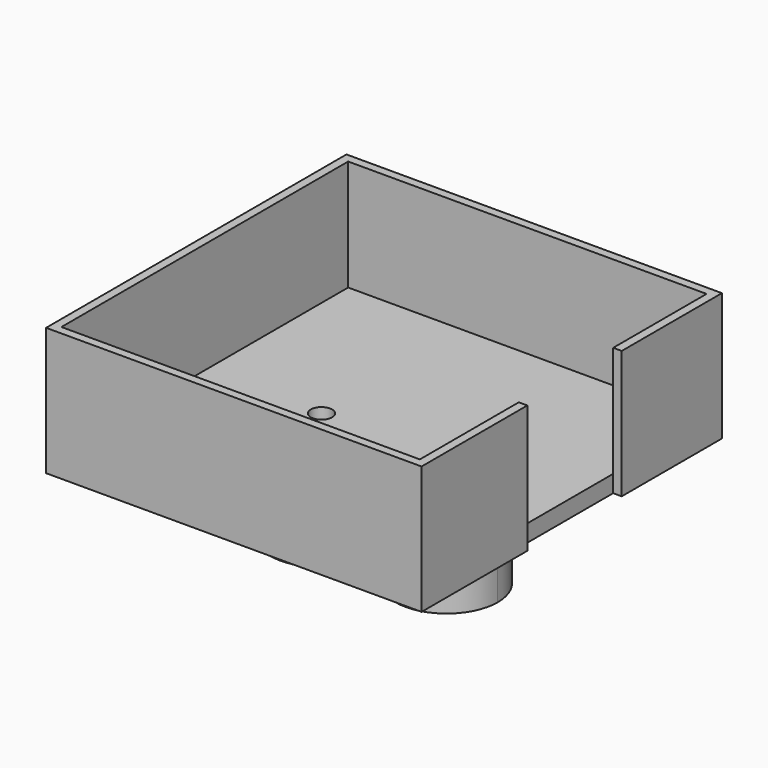
from build123d import *

# Parameters (mm, degrees)
F1_DEPTH = 16.65056
F2_W     = 42
F2_H     = 42
F3_DEPTH = 2
F2_W_2   = 44
F2_H_2   = 44
F4_DEPTH = 15
F6_D     = 2.5
F7_DEPTH = 5.88
F8_W     = 1
F8_H     = 13.8298794627
F9_DEPTH = 25


with BuildPart() as f1:
    # F0 (on Top) → F1 (new body)
    with BuildSketch(Plane.XY):
        with BuildLine():
            Line((0.0728459244, 3.5), (4.8733971724, 3.5))
            ThreePointArc((4.8733971724, 3.5), (-6, 0), (4.8733971724, -3.5))
            Line((4.8733971724, -3.5), (0.0728459244, -3.5))
            Line((0.0728459244, -3.5), (0.0728459244, 3.5))
        make_face()
        with BuildLine():
            ThreePointArc((4.8733971724, 3.5), (5.7114088907, 1.8384255445), (6, 0))
            ThreePointArc((6, 0), (5.7114088907, -1.8384255445), (4.8733971724, -3.5))
            Line((4.8733971724, -3.5), (9.7837838487, -3.5))
            ThreePointArc((9.7837838487, -3.5), (8.6571810211, 0), (9.7837838487, 3.5))
            Line((9.7837838487, 3.5), (4.8733971724, 3.5))
        make_face()
        with BuildLine():
            ThreePointArc((4.8733971724, -3.5), (5.7114088907, -1.8384255445), (6, 0))
            ThreePointArc((6, 0), (5.7114088907, 1.8384255445), (4.8733971724, 3.5))
            Line((4.8733971724, 3.5), (0.0728459244, 3.5))
            Line((0.0728459244, 3.5), (0.0728459244, -3.5))
            Line((0.0728459244, -3.5), (4.8733971724, -3.5))
        make_face()
        with BuildLine():
            Line((14.6571810211, 3.5), (9.7837838487, 3.5))
            ThreePointArc((9.7837838487, 3.5), (8.6571810211, 0), (9.7837838487, -3.5))
            Line((9.7837838487, -3.5), (14.6571810211, -3.5))
            Line((14.6571810211, -3.5), (14.6571810211, 3.5))
        make_face()
        with BuildLine():
            ThreePointArc((20.6571810211, 0), (16.4956065656, 5.7114088907), (9.7837838487, 3.5))
            Line((9.7837838487, 3.5), (14.6571810211, 3.5))
            Line((14.6571810211, 3.5), (14.6571810211, -3.5))
            Line((14.6571810211, -3.5), (9.7837838487, -3.5))
            ThreePointArc((9.7837838487, -3.5), (16.4956065656, -5.7114088907), (20.6571810211, 0))
        make_face()
    extrude(amount=F1_DEPTH)

    # F2 (on face) → F3 (join)
    with BuildSketch(Plane.XY.offset(16.65056)):
        with Locations((7.3285905105, 0)):
            Rectangle(F2_W, F2_H)
        with BuildLine():
            ThreePointArc((4.8733971724, -3.5), (-6, 0), (4.8733971724, 3.5))
            Line((4.8733971724, 3.5), (9.7837838487, 3.5))
            ThreePointArc((9.7837838487, 3.5), (20.6571810211, 0), (9.7837838487, -3.5))
            Line((9.7837838487, -3.5), (4.8733971724, -3.5))
        make_face(mode=Mode.SUBTRACT)
        with BuildLine():
            Line((9.7837838487, 3.5), (4.8733971724, 3.5))
            ThreePointArc((4.8733971724, 3.5), (-6, 0), (4.8733971724, -3.5))
            Line((4.8733971724, -3.5), (9.7837838487, -3.5))
            ThreePointArc((9.7837838487, -3.5), (20.6571810211, 0), (9.7837838487, 3.5))
        make_face()
    extrude(amount=F3_DEPTH)

    # F2 (on face) → F4 (join)
    with BuildSketch(Plane.XY.offset(16.65056)):
        with Locations((7.3285905105, 0)):
            Rectangle(F2_W_2, F2_H_2)
        with Locations((7.3285905105, 0)):
            Rectangle(F2_W, F2_H, mode=Mode.SUBTRACT)
    extrude(amount=F4_DEPTH)

    # F6 (through all)
    with Locations(Plane(origin=(0, 0, 0), x_dir=(1, 0, 0), z_dir=(0, 0, -1))):
        with Locations((0, 0), (14.6571810211, 0)):
            Hole(F6_D / 2)

    # F7 (cut): a face of the model
    f7_faces = [f1.faces().sort_by_distance(p)[0] for p in [
        (7.3285905105, 0, 0),
    ]]
    extrude(f7_faces, amount=-F7_DEPTH, mode=Mode.SUBTRACT)

    # F8 (on face) → F9 (cut)
    with BuildSketch(Plane.XY.offset(31.65056)):
        with Locations((28.8285905105, 0.4071192816)):
            Rectangle(F8_W, F8_H)
    extrude(amount=-F9_DEPTH, mode=Mode.SUBTRACT)


solid = f1.part
